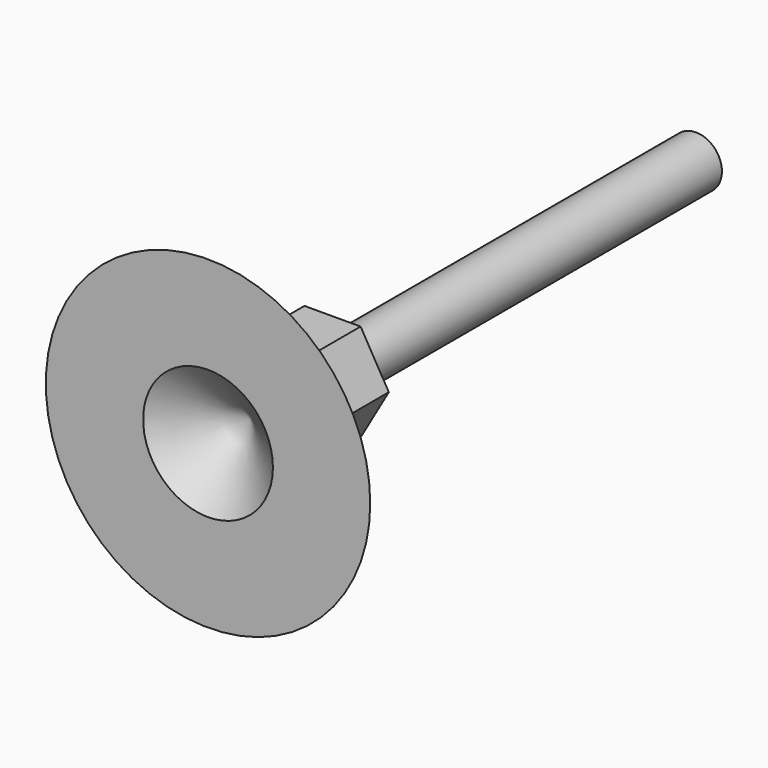
from build123d import *

# Parameters (mm, degrees)
F0_R     = 4
F1_DEPTH = 70
F3_DEPTH = 8
F4_W     = 4.341884
F4_H     = 1.508987
F5_DEPTH = 5


with BuildPart() as f1:
    # F0 (on Front) → F1 (new body)
    with BuildSketch(Plane.XZ):
        Circle(F0_R)
    extrude(amount=F1_DEPTH)

    # F2 (on face) → F3 (join)
    with BuildSketch(Plane.XZ.offset(70)):
        Polygon((4.341884, -7.4932), (8.660243, 0.013582), (4.31836, 7.506782), (-4.341884, 7.4932), (-8.660243, -0.013582), (-4.31836, -7.506782), align=None)
    extrude(amount=F3_DEPTH)

    # F4 (on face) → F5 (join)
    with BuildSketch(Plane.XZ.offset(78)):
        with Locations((2.170942, -0.754493)):
            Rectangle(F4_W, F4_H)
    extrude(amount=F5_DEPTH)

    # F6 (on face) → F7 (revolve)
    with BuildSketch(Plane.XY):
        Polygon((4.341884, -83), (0, -83), (0, -86), (10, -94), (25, -94), (8, -78), (4.341884, -78), align=None)
    revolve(axis=Axis((0, -86, 0), (0, -1, 0)))


solid = f1.part
